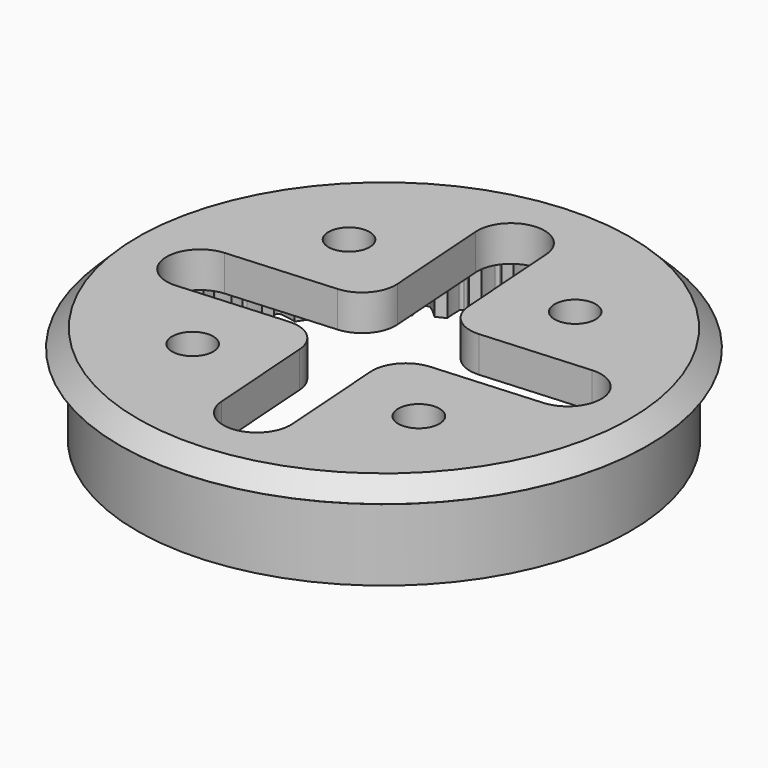
from build123d import *

# Parameters (mm, degrees)
SKETCH001_R             = 27.6
PAD002_DEPTH            = 11
POCKET001_DEPTH         = 7
SKETCH012_R             = 29.5
SKETCH012_R_2           = 27.6
PAD011_DEPTH            = 2
SKETCH019_R             = 2.3
POCKET009_DEPTH         = 4.01
POLARPATTERN001_COUNT   = 4
POCKET010_DEPTH         = 8
CHAMFER_SIZE            = 1.99
BODY002_PLACEMENT_ANGLE = 4


with BuildPart() as part:
    # Sketch001 → Pad002 (new body)
    with BuildSketch(Plane.XY):
        Circle(SKETCH001_R)
    extrude(amount=PAD002_DEPTH)

    # InvoluteGear003 → Pocket001 (cut)
    with BuildSketch(Plane.XY):
        with BuildLine():
            add(Edge.make_bspline(
                [(25.218449, -1.261772), (24.735432, -1.000187), (24.302613, -0.808059), (23.930907, -0.67297), (23.626865, -0.580723)],
                knots=[0, 0, 0, 0, 0, 1, 1, 1, 1, 1], degree=4))
            ThreePointArc((23.626865, -0.580723), (23.619729, 0), (23.626864, 0.580723))
            add(Edge.make_bspline(
                [(23.626864, 0.580723), (23.930907, 0.67297), (24.302613, 0.808059), (24.735432, 1.000187), (25.218449, 1.261772)],
                knots=[0, 0, 0, 0, 0, 1, 1, 1, 1, 1], degree=4))
            ThreePointArc((25.218449, 1.261772), (25.39371, 1.411127), (25.450074, 1.63439))
            ThreePointArc((25.450074, 1.63439), (25.447853, 1.66794), (25.445676, 1.701494))
            ThreePointArc((25.445676, 1.701494), (25.360652, 1.91549), (25.167396, 2.040691))
            add(Edge.make_bspline(
                [(25.167396, 2.040691), (24.654368, 2.236992), (24.200174, 2.370981), (23.814015, 2.456398), (23.500533, 2.50817)],
                knots=[0, 0, 0, 0, 0, 1, 1, 1, 1, 1], degree=4))
            ThreePointArc((23.500533, 2.50817), (23.417659, 3.082993), (23.348934, 3.659679))
            add(Edge.make_bspline(
                [(23.348934, 3.659679), (23.638335, 3.790823), (23.989228, 3.973274), (24.393267, 4.220252), (24.838007, 4.542645)],
                knots=[0, 0, 0, 0, 0, 1, 1, 1, 1, 1], degree=4))
            ThreePointArc((24.838007, 4.542645), (24.992274, 4.713599), (25.019015, 4.942309))
            ThreePointArc((25.019015, 4.942309), (25.012433, 4.975282), (25.005895, 5.008264))
            ThreePointArc((25.005895, 5.008264), (24.893667, 5.209332), (24.685722, 5.308237))
            add(Edge.make_bspline(
                [(24.685722, 5.308237), (24.15146, 5.435895), (23.683663, 5.509454), (23.289659, 5.543736), (22.972101, 5.554147)],
                knots=[0, 0, 0, 0, 0, 1, 1, 1, 1, 1], degree=4))
            ThreePointArc((22.972101, 5.554147), (22.814906, 6.113236), (22.671496, 6.676017))
            add(Edge.make_bspline(
                [(22.671496, 6.676017), (22.941304, 6.843814), (23.265381, 7.070505), (23.633725, 7.368107), (24.032581, 7.745793)],
                knots=[0, 0, 0, 0, 0, 1, 1, 1, 1, 1], degree=4))
            ThreePointArc((24.032581, 7.745793), (24.163214, 7.93542), (24.159873, 8.165664))
            ThreePointArc((24.159873, 8.165664), (24.149044, 8.197496), (24.138257, 8.229342))
            ThreePointArc((24.138257, 8.229342), (24.000744, 8.414041), (23.781668, 8.484958))
            add(Edge.make_bspline(
                [(23.781668, 8.484958), (23.235315, 8.541788), (22.761918, 8.553658), (22.36681, 8.536219), (22.05061, 8.505092)],
                knots=[0, 0, 0, 0, 0, 1, 1, 1, 1, 1], degree=4))
            ThreePointArc((22.05061, 8.505092), (21.821784, 9.038879), (21.606143, 9.578127))
            add(Edge.make_bspline(
                [(21.606143, 9.578127), (21.851741, 9.779705), (22.143456, 10.046757), (22.469805, 10.389892), (22.81595, 10.816408)],
                knots=[0, 0, 0, 0, 0, 1, 1, 1, 1, 1], degree=4))
            ThreePointArc((22.81595, 10.816408), (22.920714, 11.021463), (22.887349, 11.249301))
            ThreePointArc((22.887349, 11.249301), (22.872457, 11.279448), (22.857606, 11.309614))
            ThreePointArc((22.857606, 11.309614), (22.697161, 11.474783), (22.470703, 11.516498))
            add(Edge.make_bspline(
                [(22.470703, 11.516498), (21.921606, 11.501529), (21.45071, 11.451507), (21.061259, 11.382645), (20.751826, 11.310512)],
                knots=[0, 0, 0, 0, 0, 1, 1, 1, 1, 1], degree=4))
            ThreePointArc((20.751826, 11.310512), (20.455285, 11.809864), (20.171103, 12.316353))
            add(Edge.make_bspline(
                [(20.171103, 12.316353), (20.388289, 12.548263), (20.642651, 12.851107), (20.921419, 13.233903), (21.208932, 13.701951)],
                knots=[0, 0, 0, 0, 0, 1, 1, 1, 1, 1], degree=4))
            ThreePointArc((21.208932, 13.701951), (21.286034, 13.918927), (21.223216, 14.14046))
            ThreePointArc((21.223216, 14.14046), (21.204517, 14.168405), (21.185855, 14.196375))
            ThreePointArc((21.185855, 14.196375), (21.005224, 14.339189), (20.775259, 14.350988))
            add(Edge.make_bspline(
                [(20.775259, 14.350988), (20.232813, 14.264475), (19.772475, 14.153417), (19.395343, 14.034311), (19.097974, 13.922406)],
                knots=[0, 0, 0, 0, 0, 1, 1, 1, 1, 1], degree=4))
            ThreePointArc((19.097974, 13.922406), (18.738791, 14.37878), (18.39093, 14.843842))
            add(Edge.make_bspline(
                [(18.39093, 14.843842), (18.575987, 15.102116), (18.788644, 15.43557), (19.015063, 15.851479), (19.239023, 16.35305)],
                knots=[0, 0, 0, 0, 0, 1, 1, 1, 1, 1], degree=4))
            ThreePointArc((19.239023, 16.35305), (19.287145, 16.578233), (19.195948, 16.789672))
            ThreePointArc((19.195948, 16.789672), (19.173761, 16.814937), (19.151608, 16.840232))
            ThreePointArc((19.151608, 16.840232), (18.953882, 16.958247), (18.724344, 16.939929))
            add(Edge.make_bspline(
                [(18.724344, 16.939929), (18.197831, 16.783353), (17.755927, 16.613159), (17.397568, 16.445845), (17.117349, 16.296083)],
                knots=[0, 0, 0, 0, 0, 1, 1, 1, 1, 1], degree=4))
            ThreePointArc((17.117349, 16.296083), (16.70167, 16.70167), (16.296083, 17.117349))
            add(Edge.make_bspline(
                [(16.296083, 17.117349), (16.445845, 17.397568), (16.613159, 17.755927), (16.783353, 18.197831), (16.939929, 18.724344)],
                knots=[0, 0, 0, 0, 0, 1, 1, 1, 1, 1], degree=4))
            ThreePointArc((16.939929, 18.724344), (16.958247, 18.953882), (16.840232, 19.151608))
            ThreePointArc((16.840232, 19.151608), (16.814937, 19.173761), (16.789672, 19.195948))
            ThreePointArc((16.789672, 19.195948), (16.578233, 19.287145), (16.35305, 19.239023))
            add(Edge.make_bspline(
                [(16.35305, 19.239023), (15.851479, 19.015063), (15.43557, 18.788644), (15.102116, 18.575987), (14.843842, 18.39093)],
                knots=[0, 0, 0, 0, 0, 1, 1, 1, 1, 1], degree=4))
            ThreePointArc((14.843842, 18.39093), (14.37878, 18.738791), (13.922405, 19.097973))
            add(Edge.make_bspline(
                [(13.922405, 19.097973), (14.034311, 19.395343), (14.153417, 19.772475), (14.264475, 20.232813), (14.350988, 20.775259)],
                knots=[0, 0, 0, 0, 0, 1, 1, 1, 1, 1], degree=4))
            ThreePointArc((14.350988, 20.775259), (14.339189, 21.005224), (14.196375, 21.185855))
            ThreePointArc((14.196375, 21.185855), (14.168405, 21.204517), (14.14046, 21.223216))
            ThreePointArc((14.14046, 21.223216), (13.918927, 21.286034), (13.701951, 21.208932))
            add(Edge.make_bspline(
                [(13.701951, 21.208932), (13.233903, 20.921419), (12.851107, 20.642651), (12.548263, 20.388289), (12.316353, 20.171104)],
                knots=[0, 0, 0, 0, 0, 1, 1, 1, 1, 1], degree=4))
            ThreePointArc((12.316353, 20.171104), (11.809864, 20.455285), (11.310512, 20.751826))
            add(Edge.make_bspline(
                [(11.310512, 20.751826), (11.382645, 21.061259), (11.451507, 21.45071), (11.501529, 21.921606), (11.516498, 22.470703)],
                knots=[0, 0, 0, 0, 0, 1, 1, 1, 1, 1], degree=4))
            ThreePointArc((11.516498, 22.470703), (11.474783, 22.697161), (11.309614, 22.857606))
            ThreePointArc((11.309614, 22.857606), (11.279448, 22.872457), (11.249301, 22.887349))
            ThreePointArc((11.249301, 22.887349), (11.021463, 22.920714), (10.816408, 22.81595))
            add(Edge.make_bspline(
                [(10.816408, 22.81595), (10.389892, 22.469805), (10.046757, 22.143456), (9.779705, 21.851741), (9.578128, 21.606144)],
                knots=[0, 0, 0, 0, 0, 1, 1, 1, 1, 1], degree=4))
            ThreePointArc((9.578128, 21.606144), (9.038879, 21.821784), (8.505092, 22.050609))
            add(Edge.make_bspline(
                [(8.505092, 22.050609), (8.536219, 22.36681), (8.553658, 22.761918), (8.541788, 23.235315), (8.484958, 23.781668)],
                knots=[0, 0, 0, 0, 0, 1, 1, 1, 1, 1], degree=4))
            ThreePointArc((8.484958, 23.781668), (8.414041, 24.000744), (8.229342, 24.138257))
            ThreePointArc((8.229342, 24.138257), (8.197496, 24.149044), (8.165664, 24.159873))
            ThreePointArc((8.165664, 24.159873), (7.93542, 24.163214), (7.745793, 24.032581))
            add(Edge.make_bspline(
                [(7.745793, 24.032581), (7.368107, 23.633725), (7.070505, 23.265381), (6.843814, 22.941304), (6.676018, 22.671497)],
                knots=[0, 0, 0, 0, 0, 1, 1, 1, 1, 1], degree=4))
            ThreePointArc((6.676018, 22.671497), (6.113236, 22.814906), (5.554147, 22.972101))
            add(Edge.make_bspline(
                [(5.554147, 22.972101), (5.543736, 23.289659), (5.509454, 23.683663), (5.435895, 24.15146), (5.308237, 24.685722)],
                knots=[0, 0, 0, 0, 0, 1, 1, 1, 1, 1], degree=4))
            ThreePointArc((5.308237, 24.685722), (5.209332, 24.893667), (5.008264, 25.005895))
            ThreePointArc((5.008264, 25.005895), (4.975282, 25.012433), (4.942309, 25.019015))
            ThreePointArc((4.942309, 25.019015), (4.713599, 24.992274), (4.542645, 24.838007))
            add(Edge.make_bspline(
                [(4.542645, 24.838007), (4.220252, 24.393267), (3.973274, 23.989228), (3.790823, 23.638335), (3.659679, 23.348934)],
                knots=[0, 0, 0, 0, 0, 1, 1, 1, 1, 1], degree=4))
            ThreePointArc((3.659679, 23.348934), (3.082993, 23.417659), (2.50817, 23.500533))
            add(Edge.make_bspline(
                [(2.50817, 23.500533), (2.456398, 23.814015), (2.370981, 24.200174), (2.236992, 24.654368), (2.040691, 25.167396)],
                knots=[0, 0, 0, 0, 0, 1, 1, 1, 1, 1], degree=4))
            ThreePointArc((2.040691, 25.167396), (1.91549, 25.360652), (1.701494, 25.445676))
            ThreePointArc((1.701494, 25.445676), (1.66794, 25.447853), (1.63439, 25.450074))
            ThreePointArc((1.63439, 25.450074), (1.411127, 25.39371), (1.261772, 25.218449))
            add(Edge.make_bspline(
                [(1.261772, 25.218449), (1.000187, 24.735432), (0.808059, 24.302613), (0.67297, 23.930907), (0.580723, 23.626865)],
                knots=[0, 0, 0, 0, 0, 1, 1, 1, 1, 1], degree=4))
            ThreePointArc((0.580723, 23.626865), (0, 23.619729), (-0.580723, 23.626864))
            add(Edge.make_bspline(
                [(-0.580723, 23.626864), (-0.67297, 23.930907), (-0.808059, 24.302613), (-1.000187, 24.735432), (-1.261772, 25.218449)],
                knots=[0, 0, 0, 0, 0, 1, 1, 1, 1, 1], degree=4))
            ThreePointArc((-1.261772, 25.218449), (-1.411127, 25.39371), (-1.63439, 25.450074))
            ThreePointArc((-1.63439, 25.450074), (-1.66794, 25.447853), (-1.701494, 25.445676))
            ThreePointArc((-1.701494, 25.445676), (-1.91549, 25.360652), (-2.040691, 25.167396))
            add(Edge.make_bspline(
                [(-2.040691, 25.167396), (-2.236992, 24.654368), (-2.370981, 24.200174), (-2.456398, 23.814015), (-2.50817, 23.500533)],
                knots=[0, 0, 0, 0, 0, 1, 1, 1, 1, 1], degree=4))
            ThreePointArc((-2.50817, 23.500533), (-3.082993, 23.417659), (-3.659679, 23.348934))
            add(Edge.make_bspline(
                [(-3.659679, 23.348934), (-3.790823, 23.638335), (-3.973274, 23.989228), (-4.220252, 24.393267), (-4.542645, 24.838007)],
                knots=[0, 0, 0, 0, 0, 1, 1, 1, 1, 1], degree=4))
            ThreePointArc((-4.542645, 24.838007), (-4.713599, 24.992274), (-4.942309, 25.019015))
            ThreePointArc((-4.942309, 25.019015), (-4.975282, 25.012433), (-5.008264, 25.005895))
            ThreePointArc((-5.008264, 25.005895), (-5.209332, 24.893667), (-5.308237, 24.685722))
            add(Edge.make_bspline(
                [(-5.308237, 24.685722), (-5.435895, 24.15146), (-5.509454, 23.683663), (-5.543736, 23.289659), (-5.554147, 22.972101)],
                knots=[0, 0, 0, 0, 0, 1, 1, 1, 1, 1], degree=4))
            ThreePointArc((-5.554147, 22.972101), (-6.113236, 22.814906), (-6.676017, 22.671496))
            add(Edge.make_bspline(
                [(-6.676017, 22.671496), (-6.843814, 22.941304), (-7.070505, 23.265381), (-7.368107, 23.633725), (-7.745793, 24.032581)],
                knots=[0, 0, 0, 0, 0, 1, 1, 1, 1, 1], degree=4))
            ThreePointArc((-7.745793, 24.032581), (-7.93542, 24.163214), (-8.165664, 24.159873))
            ThreePointArc((-8.165664, 24.159873), (-8.197496, 24.149044), (-8.229342, 24.138257))
            ThreePointArc((-8.229342, 24.138257), (-8.414041, 24.000744), (-8.484958, 23.781668))
            add(Edge.make_bspline(
                [(-8.484958, 23.781668), (-8.541788, 23.235315), (-8.553658, 22.761918), (-8.536219, 22.36681), (-8.505092, 22.05061)],
                knots=[0, 0, 0, 0, 0, 1, 1, 1, 1, 1], degree=4))
            ThreePointArc((-8.505092, 22.05061), (-9.038879, 21.821784), (-9.578127, 21.606143))
            add(Edge.make_bspline(
                [(-9.578127, 21.606143), (-9.779705, 21.851741), (-10.046757, 22.143456), (-10.389892, 22.469805), (-10.816408, 22.81595)],
                knots=[0, 0, 0, 0, 0, 1, 1, 1, 1, 1], degree=4))
            ThreePointArc((-10.816408, 22.81595), (-11.021463, 22.920714), (-11.249301, 22.887349))
            ThreePointArc((-11.249301, 22.887349), (-11.279448, 22.872457), (-11.309614, 22.857606))
            ThreePointArc((-11.309614, 22.857606), (-11.474783, 22.697161), (-11.516498, 22.470703))
            add(Edge.make_bspline(
                [(-11.516498, 22.470703), (-11.501529, 21.921606), (-11.451507, 21.45071), (-11.382645, 21.061259), (-11.310512, 20.751826)],
                knots=[0, 0, 0, 0, 0, 1, 1, 1, 1, 1], degree=4))
            ThreePointArc((-11.310512, 20.751826), (-11.809864, 20.455285), (-12.316353, 20.171103))
            add(Edge.make_bspline(
                [(-12.316353, 20.171103), (-12.548263, 20.388289), (-12.851107, 20.642651), (-13.233903, 20.921419), (-13.701951, 21.208932)],
                knots=[0, 0, 0, 0, 0, 1, 1, 1, 1, 1], degree=4))
            ThreePointArc((-13.701951, 21.208932), (-13.918927, 21.286034), (-14.14046, 21.223216))
            ThreePointArc((-14.14046, 21.223216), (-14.168405, 21.204517), (-14.196375, 21.185855))
            ThreePointArc((-14.196375, 21.185855), (-14.339189, 21.005224), (-14.350988, 20.775259))
            add(Edge.make_bspline(
                [(-14.350988, 20.775259), (-14.264475, 20.232813), (-14.153417, 19.772475), (-14.034311, 19.395343), (-13.922406, 19.097974)],
                knots=[0, 0, 0, 0, 0, 1, 1, 1, 1, 1], degree=4))
            ThreePointArc((-13.922406, 19.097974), (-14.37878, 18.738791), (-14.843842, 18.39093))
            add(Edge.make_bspline(
                [(-14.843842, 18.39093), (-15.102116, 18.575987), (-15.43557, 18.788644), (-15.851479, 19.015063), (-16.35305, 19.239023)],
                knots=[0, 0, 0, 0, 0, 1, 1, 1, 1, 1], degree=4))
            ThreePointArc((-16.35305, 19.239023), (-16.578233, 19.287145), (-16.789672, 19.195948))
            ThreePointArc((-16.789672, 19.195948), (-16.814937, 19.173761), (-16.840232, 19.151608))
            ThreePointArc((-16.840232, 19.151608), (-16.958247, 18.953882), (-16.939929, 18.724344))
            add(Edge.make_bspline(
                [(-16.939929, 18.724344), (-16.783353, 18.197831), (-16.613159, 17.755927), (-16.445845, 17.397568), (-16.296083, 17.117349)],
                knots=[0, 0, 0, 0, 0, 1, 1, 1, 1, 1], degree=4))
            ThreePointArc((-16.296083, 17.117349), (-16.70167, 16.70167), (-17.117349, 16.296083))
            add(Edge.make_bspline(
                [(-17.117349, 16.296083), (-17.397568, 16.445845), (-17.755927, 16.613159), (-18.197831, 16.783353), (-18.724344, 16.939929)],
                knots=[0, 0, 0, 0, 0, 1, 1, 1, 1, 1], degree=4))
            ThreePointArc((-18.724344, 16.939929), (-18.953882, 16.958247), (-19.151608, 16.840232))
            ThreePointArc((-19.151608, 16.840232), (-19.173761, 16.814937), (-19.195948, 16.789672))
            ThreePointArc((-19.195948, 16.789672), (-19.287145, 16.578233), (-19.239023, 16.35305))
            add(Edge.make_bspline(
                [(-19.239023, 16.35305), (-19.015063, 15.851479), (-18.788644, 15.43557), (-18.575987, 15.102116), (-18.39093, 14.843842)],
                knots=[0, 0, 0, 0, 0, 1, 1, 1, 1, 1], degree=4))
            ThreePointArc((-18.39093, 14.843842), (-18.738791, 14.37878), (-19.097973, 13.922405))
            add(Edge.make_bspline(
                [(-19.097973, 13.922405), (-19.395343, 14.034311), (-19.772475, 14.153417), (-20.232813, 14.264475), (-20.775259, 14.350988)],
                knots=[0, 0, 0, 0, 0, 1, 1, 1, 1, 1], degree=4))
            ThreePointArc((-20.775259, 14.350988), (-21.005224, 14.339189), (-21.185855, 14.196375))
            ThreePointArc((-21.185855, 14.196375), (-21.204517, 14.168405), (-21.223216, 14.14046))
            ThreePointArc((-21.223216, 14.14046), (-21.286034, 13.918927), (-21.208932, 13.701951))
            add(Edge.make_bspline(
                [(-21.208932, 13.701951), (-20.921419, 13.233903), (-20.642651, 12.851107), (-20.388289, 12.548263), (-20.171104, 12.316353)],
                knots=[0, 0, 0, 0, 0, 1, 1, 1, 1, 1], degree=4))
            ThreePointArc((-20.171104, 12.316353), (-20.455285, 11.809864), (-20.751826, 11.310512))
            add(Edge.make_bspline(
                [(-20.751826, 11.310512), (-21.061259, 11.382645), (-21.45071, 11.451507), (-21.921606, 11.501529), (-22.470703, 11.516498)],
                knots=[0, 0, 0, 0, 0, 1, 1, 1, 1, 1], degree=4))
            ThreePointArc((-22.470703, 11.516498), (-22.697161, 11.474783), (-22.857606, 11.309614))
            ThreePointArc((-22.857606, 11.309614), (-22.872457, 11.279448), (-22.887349, 11.249301))
            ThreePointArc((-22.887349, 11.249301), (-22.920714, 11.021463), (-22.81595, 10.816408))
            add(Edge.make_bspline(
                [(-22.81595, 10.816408), (-22.469805, 10.389892), (-22.143456, 10.046757), (-21.851741, 9.779705), (-21.606144, 9.578128)],
                knots=[0, 0, 0, 0, 0, 1, 1, 1, 1, 1], degree=4))
            ThreePointArc((-21.606144, 9.578128), (-21.821784, 9.038879), (-22.050609, 8.505092))
            add(Edge.make_bspline(
                [(-22.050609, 8.505092), (-22.36681, 8.536219), (-22.761918, 8.553658), (-23.235315, 8.541788), (-23.781668, 8.484958)],
                knots=[0, 0, 0, 0, 0, 1, 1, 1, 1, 1], degree=4))
            ThreePointArc((-23.781668, 8.484958), (-24.000744, 8.414041), (-24.138257, 8.229342))
            ThreePointArc((-24.138257, 8.229342), (-24.149044, 8.197496), (-24.159873, 8.165664))
            ThreePointArc((-24.159873, 8.165664), (-24.163214, 7.93542), (-24.032581, 7.745793))
            add(Edge.make_bspline(
                [(-24.032581, 7.745793), (-23.633725, 7.368107), (-23.265381, 7.070505), (-22.941304, 6.843814), (-22.671497, 6.676018)],
                knots=[0, 0, 0, 0, 0, 1, 1, 1, 1, 1], degree=4))
            ThreePointArc((-22.671497, 6.676018), (-22.814906, 6.113236), (-22.972101, 5.554147))
            add(Edge.make_bspline(
                [(-22.972101, 5.554147), (-23.289659, 5.543736), (-23.683663, 5.509454), (-24.15146, 5.435895), (-24.685722, 5.308237)],
                knots=[0, 0, 0, 0, 0, 1, 1, 1, 1, 1], degree=4))
            ThreePointArc((-24.685722, 5.308237), (-24.893667, 5.209332), (-25.005895, 5.008264))
            ThreePointArc((-25.005895, 5.008264), (-25.012433, 4.975282), (-25.019015, 4.942309))
            ThreePointArc((-25.019015, 4.942309), (-24.992274, 4.713599), (-24.838007, 4.542645))
            add(Edge.make_bspline(
                [(-24.838007, 4.542645), (-24.393267, 4.220252), (-23.989228, 3.973274), (-23.638335, 3.790823), (-23.348934, 3.659679)],
                knots=[0, 0, 0, 0, 0, 1, 1, 1, 1, 1], degree=4))
            ThreePointArc((-23.348934, 3.659679), (-23.417659, 3.082993), (-23.500533, 2.50817))
            add(Edge.make_bspline(
                [(-23.500533, 2.50817), (-23.814015, 2.456398), (-24.200174, 2.370981), (-24.654368, 2.236992), (-25.167396, 2.040691)],
                knots=[0, 0, 0, 0, 0, 1, 1, 1, 1, 1], degree=4))
            ThreePointArc((-25.167396, 2.040691), (-25.360652, 1.91549), (-25.445676, 1.701494))
            ThreePointArc((-25.445676, 1.701494), (-25.447853, 1.66794), (-25.450074, 1.63439))
            ThreePointArc((-25.450074, 1.63439), (-25.39371, 1.411127), (-25.218449, 1.261772))
            add(Edge.make_bspline(
                [(-25.218449, 1.261772), (-24.735432, 1.000187), (-24.302613, 0.808059), (-23.930907, 0.67297), (-23.626865, 0.580723)],
                knots=[0, 0, 0, 0, 0, 1, 1, 1, 1, 1], degree=4))
            ThreePointArc((-23.626865, 0.580723), (-23.619729, 0), (-23.626864, -0.580723))
            add(Edge.make_bspline(
                [(-23.626864, -0.580723), (-23.930907, -0.67297), (-24.302613, -0.808059), (-24.735432, -1.000187), (-25.218449, -1.261772)],
                knots=[0, 0, 0, 0, 0, 1, 1, 1, 1, 1], degree=4))
            ThreePointArc((-25.218449, -1.261772), (-25.39371, -1.411127), (-25.450074, -1.63439))
            ThreePointArc((-25.450074, -1.63439), (-25.447853, -1.66794), (-25.445676, -1.701494))
            ThreePointArc((-25.445676, -1.701494), (-25.360652, -1.91549), (-25.167396, -2.040691))
            add(Edge.make_bspline(
                [(-25.167396, -2.040691), (-24.654368, -2.236992), (-24.200174, -2.370981), (-23.814015, -2.456398), (-23.500533, -2.50817)],
                knots=[0, 0, 0, 0, 0, 1, 1, 1, 1, 1], degree=4))
            ThreePointArc((-23.500533, -2.50817), (-23.417659, -3.082993), (-23.348934, -3.659679))
            add(Edge.make_bspline(
                [(-23.348934, -3.659679), (-23.638335, -3.790823), (-23.989228, -3.973274), (-24.393267, -4.220252), (-24.838007, -4.542645)],
                knots=[0, 0, 0, 0, 0, 1, 1, 1, 1, 1], degree=4))
            ThreePointArc((-24.838007, -4.542645), (-24.992274, -4.713599), (-25.019015, -4.942309))
            ThreePointArc((-25.019015, -4.942309), (-25.012433, -4.975282), (-25.005895, -5.008264))
            ThreePointArc((-25.005895, -5.008264), (-24.893667, -5.209332), (-24.685722, -5.308237))
            add(Edge.make_bspline(
                [(-24.685722, -5.308237), (-24.15146, -5.435895), (-23.683663, -5.509454), (-23.289659, -5.543736), (-22.972101, -5.554147)],
                knots=[0, 0, 0, 0, 0, 1, 1, 1, 1, 1], degree=4))
            ThreePointArc((-22.972101, -5.554147), (-22.814906, -6.113236), (-22.671496, -6.676017))
            add(Edge.make_bspline(
                [(-22.671496, -6.676017), (-22.941304, -6.843814), (-23.265381, -7.070505), (-23.633725, -7.368107), (-24.032581, -7.745793)],
                knots=[0, 0, 0, 0, 0, 1, 1, 1, 1, 1], degree=4))
            ThreePointArc((-24.032581, -7.745793), (-24.163214, -7.93542), (-24.159873, -8.165664))
            ThreePointArc((-24.159873, -8.165664), (-24.149044, -8.197496), (-24.138257, -8.229342))
            ThreePointArc((-24.138257, -8.229342), (-24.000744, -8.414041), (-23.781668, -8.484958))
            add(Edge.make_bspline(
                [(-23.781668, -8.484958), (-23.235315, -8.541788), (-22.761918, -8.553658), (-22.36681, -8.536219), (-22.05061, -8.505092)],
                knots=[0, 0, 0, 0, 0, 1, 1, 1, 1, 1], degree=4))
            ThreePointArc((-22.05061, -8.505092), (-21.821784, -9.038879), (-21.606143, -9.578127))
            add(Edge.make_bspline(
                [(-21.606143, -9.578127), (-21.851741, -9.779705), (-22.143456, -10.046757), (-22.469805, -10.389892), (-22.81595, -10.816408)],
                knots=[0, 0, 0, 0, 0, 1, 1, 1, 1, 1], degree=4))
            ThreePointArc((-22.81595, -10.816408), (-22.920714, -11.021463), (-22.887349, -11.249301))
            ThreePointArc((-22.887349, -11.249301), (-22.872457, -11.279448), (-22.857606, -11.309614))
            ThreePointArc((-22.857606, -11.309614), (-22.697161, -11.474783), (-22.470703, -11.516498))
            add(Edge.make_bspline(
                [(-22.470703, -11.516498), (-21.921606, -11.501529), (-21.45071, -11.451507), (-21.061259, -11.382645), (-20.751826, -11.310512)],
                knots=[0, 0, 0, 0, 0, 1, 1, 1, 1, 1], degree=4))
            ThreePointArc((-20.751826, -11.310512), (-20.455285, -11.809864), (-20.171103, -12.316353))
            add(Edge.make_bspline(
                [(-20.171103, -12.316353), (-20.388289, -12.548263), (-20.642651, -12.851107), (-20.921419, -13.233903), (-21.208932, -13.701951)],
                knots=[0, 0, 0, 0, 0, 1, 1, 1, 1, 1], degree=4))
            ThreePointArc((-21.208932, -13.701951), (-21.286034, -13.918927), (-21.223216, -14.14046))
            ThreePointArc((-21.223216, -14.14046), (-21.204517, -14.168405), (-21.185855, -14.196375))
            ThreePointArc((-21.185855, -14.196375), (-21.005224, -14.339189), (-20.775259, -14.350988))
            add(Edge.make_bspline(
                [(-20.775259, -14.350988), (-20.232813, -14.264475), (-19.772475, -14.153417), (-19.395343, -14.034311), (-19.097974, -13.922406)],
                knots=[0, 0, 0, 0, 0, 1, 1, 1, 1, 1], degree=4))
            ThreePointArc((-19.097974, -13.922406), (-18.738791, -14.37878), (-18.39093, -14.843842))
            add(Edge.make_bspline(
                [(-18.39093, -14.843842), (-18.575987, -15.102116), (-18.788644, -15.43557), (-19.015063, -15.851479), (-19.239023, -16.35305)],
                knots=[0, 0, 0, 0, 0, 1, 1, 1, 1, 1], degree=4))
            ThreePointArc((-19.239023, -16.35305), (-19.287145, -16.578233), (-19.195948, -16.789672))
            ThreePointArc((-19.195948, -16.789672), (-19.173761, -16.814937), (-19.151608, -16.840232))
            ThreePointArc((-19.151608, -16.840232), (-18.953882, -16.958247), (-18.724344, -16.939929))
            add(Edge.make_bspline(
                [(-18.724344, -16.939929), (-18.197831, -16.783353), (-17.755927, -16.613159), (-17.397568, -16.445845), (-17.117349, -16.296083)],
                knots=[0, 0, 0, 0, 0, 1, 1, 1, 1, 1], degree=4))
            ThreePointArc((-17.117349, -16.296083), (-16.70167, -16.70167), (-16.296083, -17.117349))
            add(Edge.make_bspline(
                [(-16.296083, -17.117349), (-16.445845, -17.397568), (-16.613159, -17.755927), (-16.783353, -18.197831), (-16.939929, -18.724344)],
                knots=[0, 0, 0, 0, 0, 1, 1, 1, 1, 1], degree=4))
            ThreePointArc((-16.939929, -18.724344), (-16.958247, -18.953882), (-16.840232, -19.151608))
            ThreePointArc((-16.840232, -19.151608), (-16.814937, -19.173761), (-16.789672, -19.195948))
            ThreePointArc((-16.789672, -19.195948), (-16.578233, -19.287145), (-16.35305, -19.239023))
            add(Edge.make_bspline(
                [(-16.35305, -19.239023), (-15.851479, -19.015063), (-15.43557, -18.788644), (-15.102116, -18.575987), (-14.843842, -18.39093)],
                knots=[0, 0, 0, 0, 0, 1, 1, 1, 1, 1], degree=4))
            ThreePointArc((-14.843842, -18.39093), (-14.37878, -18.738791), (-13.922405, -19.097973))
            add(Edge.make_bspline(
                [(-13.922405, -19.097973), (-14.034311, -19.395343), (-14.153417, -19.772475), (-14.264475, -20.232813), (-14.350988, -20.775259)],
                knots=[0, 0, 0, 0, 0, 1, 1, 1, 1, 1], degree=4))
            ThreePointArc((-14.350988, -20.775259), (-14.339189, -21.005224), (-14.196375, -21.185855))
            ThreePointArc((-14.196375, -21.185855), (-14.168405, -21.204517), (-14.14046, -21.223216))
            ThreePointArc((-14.14046, -21.223216), (-13.918927, -21.286034), (-13.701951, -21.208932))
            add(Edge.make_bspline(
                [(-13.701951, -21.208932), (-13.233903, -20.921419), (-12.851107, -20.642651), (-12.548263, -20.388289), (-12.316353, -20.171104)],
                knots=[0, 0, 0, 0, 0, 1, 1, 1, 1, 1], degree=4))
            ThreePointArc((-12.316353, -20.171104), (-11.809864, -20.455285), (-11.310512, -20.751826))
            add(Edge.make_bspline(
                [(-11.310512, -20.751826), (-11.382645, -21.061259), (-11.451507, -21.45071), (-11.501529, -21.921606), (-11.516498, -22.470703)],
                knots=[0, 0, 0, 0, 0, 1, 1, 1, 1, 1], degree=4))
            ThreePointArc((-11.516498, -22.470703), (-11.474783, -22.697161), (-11.309614, -22.857606))
            ThreePointArc((-11.309614, -22.857606), (-11.279448, -22.872457), (-11.249301, -22.887349))
            ThreePointArc((-11.249301, -22.887349), (-11.021463, -22.920714), (-10.816408, -22.81595))
            add(Edge.make_bspline(
                [(-10.816408, -22.81595), (-10.389892, -22.469805), (-10.046757, -22.143456), (-9.779705, -21.851741), (-9.578128, -21.606144)],
                knots=[0, 0, 0, 0, 0, 1, 1, 1, 1, 1], degree=4))
            ThreePointArc((-9.578128, -21.606144), (-9.038879, -21.821784), (-8.505092, -22.050609))
            add(Edge.make_bspline(
                [(-8.505092, -22.050609), (-8.536219, -22.36681), (-8.553658, -22.761918), (-8.541788, -23.235315), (-8.484958, -23.781668)],
                knots=[0, 0, 0, 0, 0, 1, 1, 1, 1, 1], degree=4))
            ThreePointArc((-8.484958, -23.781668), (-8.414041, -24.000744), (-8.229342, -24.138257))
            ThreePointArc((-8.229342, -24.138257), (-8.197496, -24.149044), (-8.165664, -24.159873))
            ThreePointArc((-8.165664, -24.159873), (-7.93542, -24.163214), (-7.745793, -24.032581))
            add(Edge.make_bspline(
                [(-7.745793, -24.032581), (-7.368107, -23.633725), (-7.070505, -23.265381), (-6.843814, -22.941304), (-6.676018, -22.671497)],
                knots=[0, 0, 0, 0, 0, 1, 1, 1, 1, 1], degree=4))
            ThreePointArc((-6.676018, -22.671497), (-6.113236, -22.814906), (-5.554147, -22.972101))
            add(Edge.make_bspline(
                [(-5.554147, -22.972101), (-5.543736, -23.289659), (-5.509454, -23.683663), (-5.435895, -24.15146), (-5.308237, -24.685722)],
                knots=[0, 0, 0, 0, 0, 1, 1, 1, 1, 1], degree=4))
            ThreePointArc((-5.308237, -24.685722), (-5.209332, -24.893667), (-5.008264, -25.005895))
            ThreePointArc((-5.008264, -25.005895), (-4.975282, -25.012433), (-4.942309, -25.019015))
            ThreePointArc((-4.942309, -25.019015), (-4.713599, -24.992274), (-4.542645, -24.838007))
            add(Edge.make_bspline(
                [(-4.542645, -24.838007), (-4.220252, -24.393267), (-3.973274, -23.989228), (-3.790823, -23.638335), (-3.659679, -23.348934)],
                knots=[0, 0, 0, 0, 0, 1, 1, 1, 1, 1], degree=4))
            ThreePointArc((-3.659679, -23.348934), (-3.082993, -23.417659), (-2.50817, -23.500533))
            add(Edge.make_bspline(
                [(-2.50817, -23.500533), (-2.456398, -23.814015), (-2.370981, -24.200174), (-2.236992, -24.654368), (-2.040691, -25.167396)],
                knots=[0, 0, 0, 0, 0, 1, 1, 1, 1, 1], degree=4))
            ThreePointArc((-2.040691, -25.167396), (-1.91549, -25.360652), (-1.701494, -25.445676))
            ThreePointArc((-1.701494, -25.445676), (-1.66794, -25.447853), (-1.63439, -25.450074))
            ThreePointArc((-1.63439, -25.450074), (-1.411127, -25.39371), (-1.261772, -25.218449))
            add(Edge.make_bspline(
                [(-1.261772, -25.218449), (-1.000187, -24.735432), (-0.808059, -24.302613), (-0.67297, -23.930907), (-0.580723, -23.626865)],
                knots=[0, 0, 0, 0, 0, 1, 1, 1, 1, 1], degree=4))
            ThreePointArc((-0.580723, -23.626865), (0, -23.619729), (0.580723, -23.626864))
            add(Edge.make_bspline(
                [(0.580723, -23.626864), (0.67297, -23.930907), (0.808059, -24.302613), (1.000187, -24.735432), (1.261772, -25.218449)],
                knots=[0, 0, 0, 0, 0, 1, 1, 1, 1, 1], degree=4))
            ThreePointArc((1.261772, -25.218449), (1.411127, -25.39371), (1.63439, -25.450074))
            ThreePointArc((1.63439, -25.450074), (1.66794, -25.447853), (1.701494, -25.445676))
            ThreePointArc((1.701494, -25.445676), (1.91549, -25.360652), (2.040691, -25.167396))
            add(Edge.make_bspline(
                [(2.040691, -25.167396), (2.236992, -24.654368), (2.370981, -24.200174), (2.456398, -23.814015), (2.50817, -23.500533)],
                knots=[0, 0, 0, 0, 0, 1, 1, 1, 1, 1], degree=4))
            ThreePointArc((2.50817, -23.500533), (3.082993, -23.417659), (3.659679, -23.348934))
            add(Edge.make_bspline(
                [(3.659679, -23.348934), (3.790823, -23.638335), (3.973274, -23.989228), (4.220252, -24.393267), (4.542645, -24.838007)],
                knots=[0, 0, 0, 0, 0, 1, 1, 1, 1, 1], degree=4))
            ThreePointArc((4.542645, -24.838007), (4.713599, -24.992274), (4.942309, -25.019015))
            ThreePointArc((4.942309, -25.019015), (4.975282, -25.012433), (5.008264, -25.005895))
            ThreePointArc((5.008264, -25.005895), (5.209332, -24.893667), (5.308237, -24.685722))
            add(Edge.make_bspline(
                [(5.308237, -24.685722), (5.435895, -24.15146), (5.509454, -23.683663), (5.543736, -23.289659), (5.554147, -22.972101)],
                knots=[0, 0, 0, 0, 0, 1, 1, 1, 1, 1], degree=4))
            ThreePointArc((5.554147, -22.972101), (6.113236, -22.814906), (6.676017, -22.671496))
            add(Edge.make_bspline(
                [(6.676017, -22.671496), (6.843814, -22.941304), (7.070505, -23.265381), (7.368107, -23.633725), (7.745793, -24.032581)],
                knots=[0, 0, 0, 0, 0, 1, 1, 1, 1, 1], degree=4))
            ThreePointArc((7.745793, -24.032581), (7.93542, -24.163214), (8.165664, -24.159873))
            ThreePointArc((8.165664, -24.159873), (8.197496, -24.149044), (8.229342, -24.138257))
            ThreePointArc((8.229342, -24.138257), (8.414041, -24.000744), (8.484958, -23.781668))
            add(Edge.make_bspline(
                [(8.484958, -23.781668), (8.541788, -23.235315), (8.553658, -22.761918), (8.536219, -22.36681), (8.505092, -22.05061)],
                knots=[0, 0, 0, 0, 0, 1, 1, 1, 1, 1], degree=4))
            ThreePointArc((8.505092, -22.05061), (9.038879, -21.821784), (9.578127, -21.606143))
            add(Edge.make_bspline(
                [(9.578127, -21.606143), (9.779705, -21.851741), (10.046757, -22.143456), (10.389892, -22.469805), (10.816408, -22.81595)],
                knots=[0, 0, 0, 0, 0, 1, 1, 1, 1, 1], degree=4))
            ThreePointArc((10.816408, -22.81595), (11.021463, -22.920714), (11.249301, -22.887349))
            ThreePointArc((11.249301, -22.887349), (11.279448, -22.872457), (11.309614, -22.857606))
            ThreePointArc((11.309614, -22.857606), (11.474783, -22.697161), (11.516498, -22.470703))
            add(Edge.make_bspline(
                [(11.516498, -22.470703), (11.501529, -21.921606), (11.451507, -21.45071), (11.382645, -21.061259), (11.310512, -20.751826)],
                knots=[0, 0, 0, 0, 0, 1, 1, 1, 1, 1], degree=4))
            ThreePointArc((11.310512, -20.751826), (11.809864, -20.455285), (12.316353, -20.171103))
            add(Edge.make_bspline(
                [(12.316353, -20.171103), (12.548263, -20.388289), (12.851107, -20.642651), (13.233903, -20.921419), (13.701951, -21.208932)],
                knots=[0, 0, 0, 0, 0, 1, 1, 1, 1, 1], degree=4))
            ThreePointArc((13.701951, -21.208932), (13.918927, -21.286034), (14.14046, -21.223216))
            ThreePointArc((14.14046, -21.223216), (14.168405, -21.204517), (14.196375, -21.185855))
            ThreePointArc((14.196375, -21.185855), (14.339189, -21.005224), (14.350988, -20.775259))
            add(Edge.make_bspline(
                [(14.350988, -20.775259), (14.264475, -20.232813), (14.153417, -19.772475), (14.034311, -19.395343), (13.922406, -19.097974)],
                knots=[0, 0, 0, 0, 0, 1, 1, 1, 1, 1], degree=4))
            ThreePointArc((13.922406, -19.097974), (14.37878, -18.738791), (14.843842, -18.39093))
            add(Edge.make_bspline(
                [(14.843842, -18.39093), (15.102116, -18.575987), (15.43557, -18.788644), (15.851479, -19.015063), (16.35305, -19.239023)],
                knots=[0, 0, 0, 0, 0, 1, 1, 1, 1, 1], degree=4))
            ThreePointArc((16.35305, -19.239023), (16.578233, -19.287145), (16.789672, -19.195948))
            ThreePointArc((16.789672, -19.195948), (16.814937, -19.173761), (16.840232, -19.151608))
            ThreePointArc((16.840232, -19.151608), (16.958247, -18.953882), (16.939929, -18.724344))
            add(Edge.make_bspline(
                [(16.939929, -18.724344), (16.783353, -18.197831), (16.613159, -17.755927), (16.445845, -17.397568), (16.296083, -17.117349)],
                knots=[0, 0, 0, 0, 0, 1, 1, 1, 1, 1], degree=4))
            ThreePointArc((16.296083, -17.117349), (16.70167, -16.70167), (17.117349, -16.296083))
            add(Edge.make_bspline(
                [(17.117349, -16.296083), (17.397568, -16.445845), (17.755927, -16.613159), (18.197831, -16.783353), (18.724344, -16.939929)],
                knots=[0, 0, 0, 0, 0, 1, 1, 1, 1, 1], degree=4))
            ThreePointArc((18.724344, -16.939929), (18.953882, -16.958247), (19.151608, -16.840232))
            ThreePointArc((19.151608, -16.840232), (19.173761, -16.814937), (19.195948, -16.789672))
            ThreePointArc((19.195948, -16.789672), (19.287145, -16.578233), (19.239023, -16.35305))
            add(Edge.make_bspline(
                [(19.239023, -16.35305), (19.015063, -15.851479), (18.788644, -15.43557), (18.575987, -15.102116), (18.39093, -14.843842)],
                knots=[0, 0, 0, 0, 0, 1, 1, 1, 1, 1], degree=4))
            ThreePointArc((18.39093, -14.843842), (18.738791, -14.37878), (19.097973, -13.922405))
            add(Edge.make_bspline(
                [(19.097973, -13.922405), (19.395343, -14.034311), (19.772475, -14.153417), (20.232813, -14.264475), (20.775259, -14.350988)],
                knots=[0, 0, 0, 0, 0, 1, 1, 1, 1, 1], degree=4))
            ThreePointArc((20.775259, -14.350988), (21.005224, -14.339189), (21.185855, -14.196375))
            ThreePointArc((21.185855, -14.196375), (21.204517, -14.168405), (21.223216, -14.14046))
            ThreePointArc((21.223216, -14.14046), (21.286034, -13.918927), (21.208932, -13.701951))
            add(Edge.make_bspline(
                [(21.208932, -13.701951), (20.921419, -13.233903), (20.642651, -12.851107), (20.388289, -12.548263), (20.171104, -12.316353)],
                knots=[0, 0, 0, 0, 0, 1, 1, 1, 1, 1], degree=4))
            ThreePointArc((20.171104, -12.316353), (20.455285, -11.809864), (20.751826, -11.310512))
            add(Edge.make_bspline(
                [(20.751826, -11.310512), (21.061259, -11.382645), (21.45071, -11.451507), (21.921606, -11.501529), (22.470703, -11.516498)],
                knots=[0, 0, 0, 0, 0, 1, 1, 1, 1, 1], degree=4))
            ThreePointArc((22.470703, -11.516498), (22.697161, -11.474783), (22.857606, -11.309614))
            ThreePointArc((22.857606, -11.309614), (22.872457, -11.279448), (22.887349, -11.249301))
            ThreePointArc((22.887349, -11.249301), (22.920714, -11.021463), (22.81595, -10.816408))
            add(Edge.make_bspline(
                [(22.81595, -10.816408), (22.469805, -10.389892), (22.143456, -10.046757), (21.851741, -9.779705), (21.606144, -9.578128)],
                knots=[0, 0, 0, 0, 0, 1, 1, 1, 1, 1], degree=4))
            ThreePointArc((21.606144, -9.578128), (21.821784, -9.038879), (22.050609, -8.505092))
            add(Edge.make_bspline(
                [(22.050609, -8.505092), (22.36681, -8.536219), (22.761918, -8.553658), (23.235315, -8.541788), (23.781668, -8.484958)],
                knots=[0, 0, 0, 0, 0, 1, 1, 1, 1, 1], degree=4))
            ThreePointArc((23.781668, -8.484958), (24.000744, -8.414041), (24.138257, -8.229342))
            ThreePointArc((24.138257, -8.229342), (24.149044, -8.197496), (24.159873, -8.165664))
            ThreePointArc((24.159873, -8.165664), (24.163214, -7.93542), (24.032581, -7.745793))
            add(Edge.make_bspline(
                [(24.032581, -7.745793), (23.633725, -7.368107), (23.265381, -7.070505), (22.941304, -6.843814), (22.671497, -6.676018)],
                knots=[0, 0, 0, 0, 0, 1, 1, 1, 1, 1], degree=4))
            ThreePointArc((22.671497, -6.676018), (22.814906, -6.113236), (22.972101, -5.554147))
            add(Edge.make_bspline(
                [(22.972101, -5.554147), (23.289659, -5.543736), (23.683663, -5.509454), (24.15146, -5.435895), (24.685722, -5.308237)],
                knots=[0, 0, 0, 0, 0, 1, 1, 1, 1, 1], degree=4))
            ThreePointArc((24.685722, -5.308237), (24.893667, -5.209332), (25.005895, -5.008264))
            ThreePointArc((25.005895, -5.008264), (25.012433, -4.975282), (25.019015, -4.942309))
            ThreePointArc((25.019015, -4.942309), (24.992274, -4.713599), (24.838007, -4.542645))
            add(Edge.make_bspline(
                [(24.838007, -4.542645), (24.393267, -4.220252), (23.989228, -3.973274), (23.638335, -3.790823), (23.348934, -3.659679)],
                knots=[0, 0, 0, 0, 0, 1, 1, 1, 1, 1], degree=4))
            ThreePointArc((23.348934, -3.659679), (23.417659, -3.082993), (23.500533, -2.50817))
            add(Edge.make_bspline(
                [(23.500533, -2.50817), (23.814015, -2.456398), (24.200174, -2.370981), (24.654368, -2.236992), (25.167396, -2.040691)],
                knots=[0, 0, 0, 0, 0, 1, 1, 1, 1, 1], degree=4))
            ThreePointArc((25.167396, -2.040691), (25.360652, -1.91549), (25.445676, -1.701494))
            ThreePointArc((25.445676, -1.701494), (25.447853, -1.66794), (25.450074, -1.63439))
            ThreePointArc((25.450074, -1.63439), (25.39371, -1.411127), (25.218449, -1.261772))
        make_face()
    extrude(amount=POCKET001_DEPTH, mode=Mode.SUBTRACT)

    # Sketch012 (on Face3 of Pocket001) → Pad011 (join)
    with BuildSketch(Plane.XY.offset(11)):
        Circle(SKETCH012_R)
        Circle(SKETCH012_R_2, mode=Mode.SUBTRACT)
    extrude(amount=-PAD011_DEPTH)

    # Sketch019 → Pocket009 (cut)
    with BuildSketch(Plane.XY.offset(11)):
        with Locations((-12, 12)):
            Circle(SKETCH019_R)
    pocket009 = extrude(amount=-POCKET009_DEPTH, mode=Mode.SUBTRACT)

    # PolarPattern001: Pocket009 ×4 about axis
    polarpattern001_axis = Axis((0, 0, 11), (0, 0, 1))
    for i in range(1, POLARPATTERN001_COUNT):
        add(pocket009.rotate(polarpattern001_axis, i * 360 / POLARPATTERN001_COUNT), mode=Mode.SUBTRACT)

    # Sketch020 (on Face296 of Pocket009) → Pocket010 (cut)
    with BuildSketch(Plane.XY.offset(11)):
        with BuildLine():
            Line((-3.75, 19.5), (-3.75, 7.5))
            ThreePointArc((-7.5, 3.75), (-4.84835, 4.84835), (-3.75, 7.5))
            Line((-7.5, 3.75), (-19.5, 3.75))
            ThreePointArc((-19.5, 3.75), (-23.25, 0), (-19.5, -3.75))
            Line((-19.5, -3.75), (-7.5, -3.75))
            ThreePointArc((-3.75, -7.5), (-4.84835, -4.84835), (-7.5, -3.75))
            Line((-3.75, -7.5), (-3.75, -19.5))
            ThreePointArc((-3.75, -19.5), (0, -23.25), (3.75, -19.5))
            Line((3.75, -7.5), (3.75, -19.5))
            ThreePointArc((7.5, -3.75), (4.84835, -4.84835), (3.75, -7.5))
            Line((7.5, -3.75), (19.5, -3.75))
            ThreePointArc((19.5, -3.75), (23.25, 0), (19.5, 3.75))
            Line((7.5, 3.75), (19.5, 3.75))
            ThreePointArc((3.75, 7.5), (4.84835, 4.84835), (7.5, 3.75))
            Line((3.75, 19.5), (3.75, 7.5))
            ThreePointArc((3.75, 19.5), (0, 23.25), (-3.75, 19.5))
        make_face()
    extrude(amount=-POCKET010_DEPTH, mode=Mode.SUBTRACT)

    # Chamfer
    chamfer_edges = [part.edges().sort_by_distance(p)[0] for p in [
        (-29.5, 0, 11),
    ]]
    chamfer(chamfer_edges, length=CHAMFER_SIZE)


with BuildPart() as part_1:
    # Body002 placement: moved
    add(part.part.moved(Location((0, 0, 7))).rotate(Axis((0, 0, 7), (0, 0, 1)), BODY002_PLACEMENT_ANGLE))


solid = part_1.part
